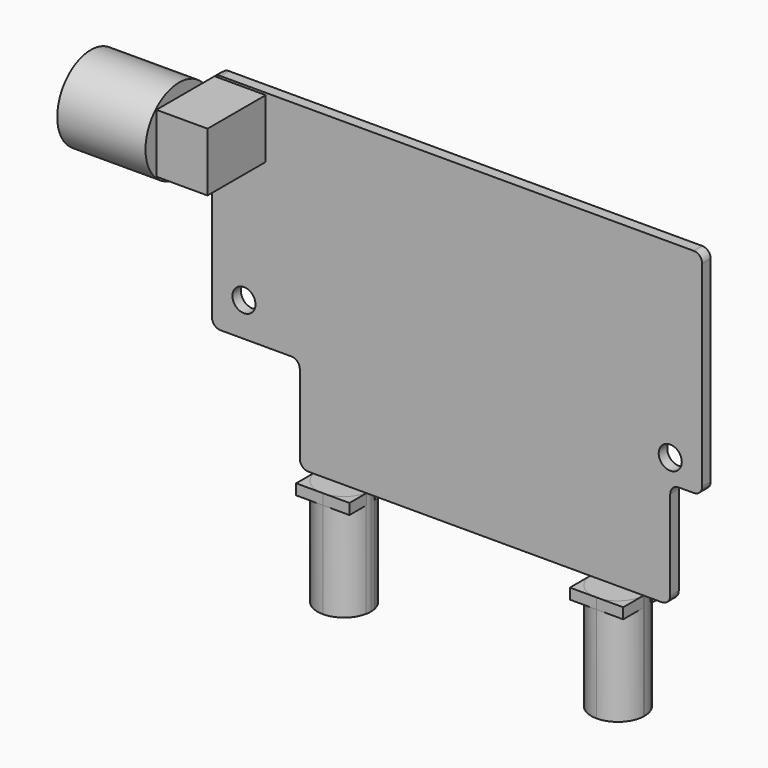
from build123d import *

# Parameters (mm, degrees)
F0_R     = 1.374775
F1_DEPTH = 1.27
F3_DEPTH = 1.27
F4_DEPTH = 12.7
F5_W     = 6.096
F5_H     = 7.0104
F6_DEPTH = 9.9314
F7_R     = 5
F8_DEPTH = 10.5156


with BuildPart() as f1:
    # F0 (on Front) → F1 (new body)
    with BuildSketch(Plane.XZ):
        with BuildLine():
            Line((10.464669, 10.414), (10.464669, 1.016))
            ThreePointArc((10.464669, 1.016), (10.762249, 0.29758), (11.480669, 0))
            Line((11.480669, 0), (53.594, 0))
            ThreePointArc((53.594, 0), (54.31242, 0.29758), (54.61, 1.016))
            Line((54.61, 1.016), (54.61, 11.684))
            ThreePointArc((54.61, 11.684), (54.90758, 12.40242), (55.626, 12.7))
            Line((55.626, 12.7), (57.404, 12.7))
            ThreePointArc((57.404, 12.7), (58.12242, 12.99758), (58.42, 13.716))
            Line((58.42, 13.716), (58.42, 37.084))
            ThreePointArc((58.42, 37.084), (58.12242, 37.80242), (57.404, 38.1))
            Line((57.404, 38.1), (1.016, 38.1))
            ThreePointArc((1.016, 38.1), (0.29758, 37.80242), (0, 37.084))
            Line((0, 37.084), (0, 12.446))
            ThreePointArc((0, 12.446), (0.29758, 11.72758), (1.016, 11.43))
            Line((1.016, 11.43), (9.448669, 11.43))
            ThreePointArc((9.448669, 11.43), (10.16709, 11.13242), (10.464669, 10.414))
        make_face()
        with Locations((3.81, 15.494)):
            Circle(F0_R, mode=Mode.SUBTRACT)
        with Locations((54.61, 15.494)):
            Circle(F0_R, mode=Mode.SUBTRACT)
    extrude(amount=F1_DEPTH)

    # F5 (on face) → F6 (join)
    with BuildSketch(Plane(origin=(0, 0, 0), x_dir=(-1, 0, 0), z_dir=(0, 1, 0))):
        with Locations((-3.352669, 34.340801)):
            Rectangle(F5_W, F5_H)
    extrude(amount=-F6_DEPTH)

    # F7 (on face) → F8 (join)
    with BuildSketch(Plane(origin=(0.304669, 0, 0), x_dir=(0, -1, 0), z_dir=(-1, 0, 0))):
        with Locations((6.5532, 34.340801)):
            Circle(F7_R)
    extrude(amount=F8_DEPTH)


with BuildPart() as f3:
    # F2 (on face) → F3 (new body)
    with BuildSketch(Plane(origin=(0, 0, 0), x_dir=(1, 0, 0), z_dir=(0, 0, -1))):
        with BuildLine():
            Line((18.350852, 1.27), (18.415, 1.27))
            Line((18.415, 1.27), (18.415, 3.81))
            Line((18.415, 3.81), (15.24, 3.81))
            ThreePointArc((15.24, 3.81), (17.248046, 3.094344), (18.350852, 1.27))
        make_face()
        with BuildLine():
            Line((12.065, 3.81), (12.065, 1.27))
            Line((12.065, 1.27), (12.129148, 1.27))
            ThreePointArc((12.129148, 1.27), (13.231954, 3.094344), (15.24, 3.81))
            Line((15.24, 3.81), (12.065, 3.81))
        make_face()
        with BuildLine():
            Line((12.065, -2.54), (15.24, -2.54))
            ThreePointArc((15.24, -2.54), (13.231954, -1.824344), (12.129148, 0))
            Line((12.129148, 0), (12.065, 0))
            Line((12.065, 0), (12.065, -2.54))
        make_face()
        with BuildLine():
            Line((15.24, -2.54), (18.415, -2.54))
            Line((18.415, -2.54), (18.415, 0))
            Line((18.415, 0), (18.350852, 0))
            ThreePointArc((18.350852, 0), (17.248046, -1.824344), (15.24, -2.54))
        make_face()
        with BuildLine():
            Line((51.435, 4.306842), (48.26, 4.306842))
            ThreePointArc((48.26, 4.306842), (50.455675, 3.425232), (51.431993, 1.27))
            Line((51.431993, 1.27), (51.435, 1.27))
            Line((51.435, 1.27), (51.435, 4.306842))
        make_face()
        with BuildLine():
            Line((45.085, 4.306842), (45.085, 1.27))
            Line((45.085, 1.27), (45.088007, 1.27))
            ThreePointArc((45.088007, 1.27), (46.064325, 3.425232), (48.26, 4.306842))
            Line((48.26, 4.306842), (45.085, 4.306842))
        make_face()
        with BuildLine():
            Line((45.293595, 0), (45.085, 0))
            Line((45.085, 0), (45.085, -2.043158))
            Line((45.085, -2.043158), (48.26, -2.043158))
            ThreePointArc((48.26, -2.043158), (46.459024, -1.482945), (45.293595, 0))
        make_face()
        with BuildLine():
            ThreePointArc((51.226405, 0), (50.060976, -1.482945), (48.26, -2.043158))
            Line((48.26, -2.043158), (51.435, -2.043158))
            Line((51.435, -2.043158), (51.435, 0))
            Line((51.435, 0), (51.226405, 0))
        make_face()
    extrude(amount=F3_DEPTH)


with BuildPart() as f4:
    # F2 (on face) → F4 (new body)
    with BuildSketch(Plane(origin=(0, 0, 0), x_dir=(1, 0, 0), z_dir=(0, 0, -1))):
        with BuildLine():
            Line((12.129148, 1.27), (18.350852, 1.27))
            ThreePointArc((18.350852, 1.27), (17.248046, 3.094344), (15.24, 3.81))
            ThreePointArc((15.24, 3.81), (13.231954, 3.094344), (12.129148, 1.27))
        make_face()
        with BuildLine():
            ThreePointArc((12.065, 0.635), (12.081078, 0.315884), (12.129148, 0))
            Line((12.129148, 0), (18.350852, 0))
            ThreePointArc((18.350852, 0), (18.398922, 0.315884), (18.415, 0.635))
            ThreePointArc((18.415, 0.635), (18.398922, 0.954116), (18.350852, 1.27))
            Line((18.350852, 1.27), (12.129148, 1.27))
            ThreePointArc((12.129148, 1.27), (12.081078, 0.954116), (12.065, 0.635))
        make_face()
        with BuildLine():
            ThreePointArc((12.129148, 0), (13.231954, -1.824344), (15.24, -2.54))
            ThreePointArc((15.24, -2.54), (17.248046, -1.824344), (18.350852, 0))
            Line((18.350852, 0), (12.129148, 0))
        make_face()
        with BuildLine():
            ThreePointArc((48.26, 4.306842), (46.064325, 3.425232), (45.088007, 1.27))
            Line((45.088007, 1.27), (51.431993, 1.27))
            ThreePointArc((51.431993, 1.27), (50.455675, 3.425232), (48.26, 4.306842))
        make_face()
        with BuildLine():
            ThreePointArc((45.088007, 1.27), (45.085752, 1.200937), (45.085, 1.131842))
            ThreePointArc((45.085, 1.131842), (45.137584, 0.55639), (45.293595, 0))
            Line((45.293595, 0), (51.226405, 0))
            ThreePointArc((51.226405, 0), (51.382416, 0.55639), (51.435, 1.131842))
            ThreePointArc((51.435, 1.131842), (51.434248, 1.200937), (51.431993, 1.27))
            Line((51.431993, 1.27), (45.088007, 1.27))
        make_face()
        with BuildLine():
            Line((51.226405, 0), (45.293595, 0))
            ThreePointArc((45.293595, 0), (46.459024, -1.482945), (48.26, -2.043158))
            ThreePointArc((48.26, -2.043158), (50.060976, -1.482945), (51.226405, 0))
        make_face()
    extrude(amount=F4_DEPTH)


solid = Compound([f1.part, f3.part, f4.part])
